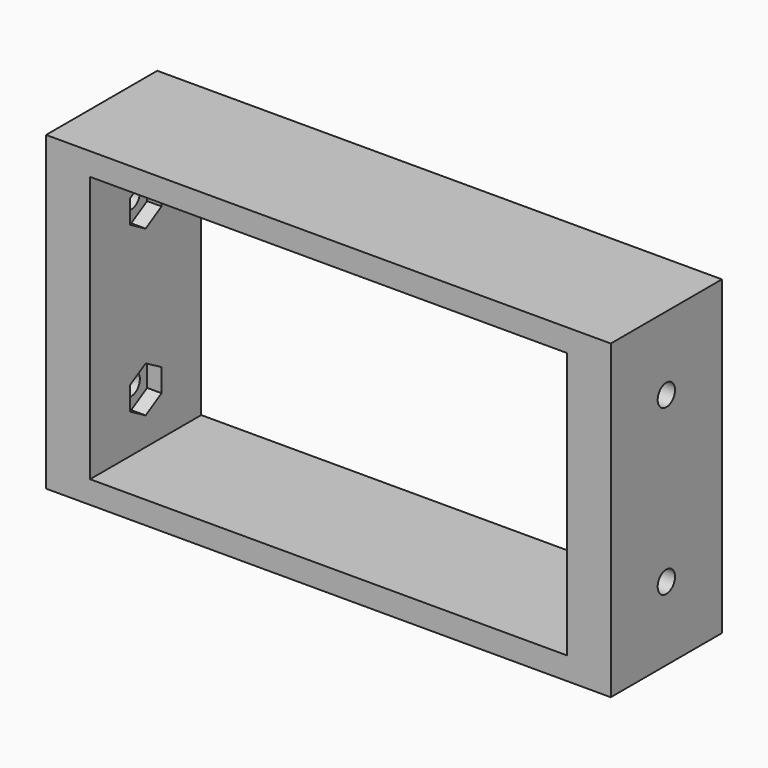
from build123d import *

# Parameters (mm, degrees)
F0_W     = 78.15
F0_H     = 43.1
F1_DEPTH = 19.23
F2_W     = 65.97
F2_H     = 36.84
F3_DEPTH = 35
F4_R     = 1.5
F5_DEPTH = 100000
F8_DEPTH = 2
F9_DEPTH = 2


with BuildPart() as f1:
    # F0 (on Front) → F1 (new body)
    with BuildSketch(Plane.XZ):
        Rectangle(F0_W, F0_H)
    extrude(amount=F1_DEPTH)

    # F2 (on face) → F3 (cut)
    with BuildSketch(Plane.XZ.offset(19.23)):
        Rectangle(F2_W, F2_H)
    extrude(amount=-F3_DEPTH, mode=Mode.SUBTRACT)

    # F4 (on face) → F5 (cut)
    with BuildSketch(Plane.YZ.offset(39.075)):
        with Locations((-9.615, 11.38)):
            Circle(F4_R)
        with Locations((-9.615, -11.38)):
            Circle(F4_R)
    extrude(amount=-F5_DEPTH, mode=Mode.SUBTRACT)

    # F7 (on face) → F8 (cut)
    with BuildSketch(Plane(origin=(32.985, 0, 0), x_dir=(0, -1, 0), z_dir=(-1, 0, 0))):
        Polygon((12.365, 9.792287), (12.365, 12.967713), (9.615, 14.555426), (6.865, 12.967713), (6.865, 9.792287), (9.615, 8.204574), align=None)
        Polygon((6.865, -12.967713), (9.615, -14.555426), (12.365, -12.967713), (12.365, -9.792287), (9.615, -8.204574), (6.865, -9.792287), align=None)
    extrude(amount=-F8_DEPTH, mode=Mode.SUBTRACT)

    # F6 (on face) → F9 (cut)
    with BuildSketch(Plane.YZ.offset(-32.985)):
        Polygon((-6.865, 9.792287), (-6.865, 12.967713), (-9.615, 14.555426), (-12.365, 12.967713), (-12.365, 9.792287), (-9.615, 8.204574), align=None)
        Polygon((-12.365, -12.967713), (-9.615, -14.555426), (-6.865, -12.967713), (-6.865, -9.792287), (-9.615, -8.204574), (-12.365, -9.792287), align=None)
    extrude(amount=-F9_DEPTH, mode=Mode.SUBTRACT)


solid = f1.part
